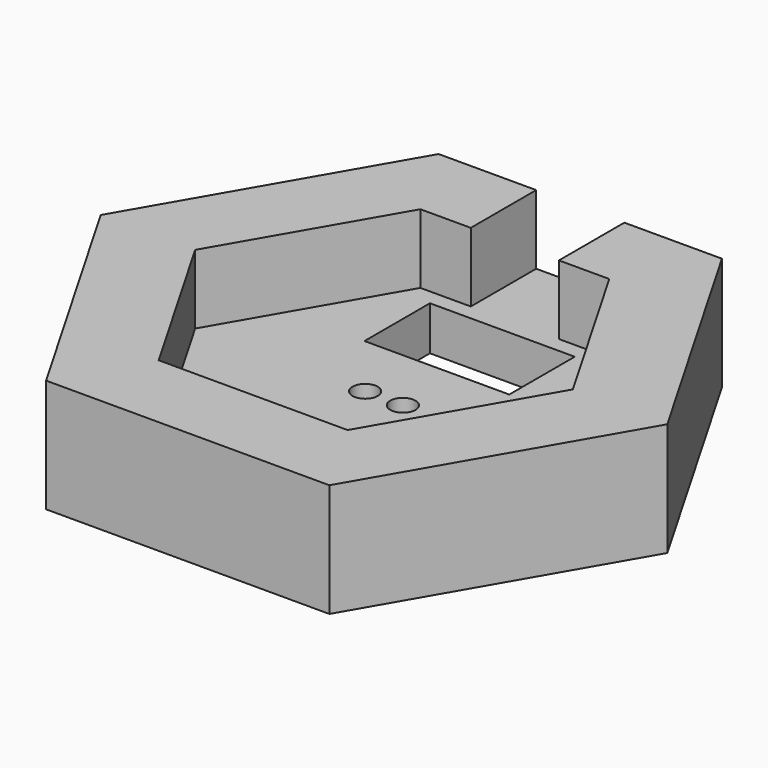
from build123d import *

# Parameters (mm, degrees)
F0_R     = 1
F1_DEPTH = 3.5
F3_DEPTH = 5.5
F4_W     = 11.5
F4_H     = 6.5
F5_DEPTH = 3.5


with BuildPart() as f1:
    # F0 (on Top) → F1 (new body)
    with BuildSketch(Plane.XY):
        Polygon((11.25, -19.485572), (22.5, 0), (11.25, 19.485572), (-11.25, 19.485572), (-22.5, 0), (-11.25, -19.485572), align=None)
        with Locations((-1.5, 0)):
            Circle(F0_R, mode=Mode.SUBTRACT)
        with Locations((1.5, 0)):
            Circle(F0_R, mode=Mode.SUBTRACT)
        Polygon((11.25, -19.485572), (22.5, 0), (11.25, 19.485572), (-11.25, 19.485572), (-22.5, 0), (-11.25, -19.485572), align=None)
        with Locations((-1.5, 0)):
            Circle(F0_R, mode=Mode.SUBTRACT)
        with Locations((1.5, 0)):
            Circle(F0_R, mode=Mode.SUBTRACT)
    extrude(amount=F1_DEPTH)

    # F2 (on face) → F3 (join)
    with BuildSketch(Plane.XY.offset(3.5)):
        Polygon((7.5, 12.990381), (15, 0), (7.5, -12.990381), (-7.5, -12.990381), (-15, 0), (-7.5, 12.990381), (-3.5, 12.990381), (-3.5, 19.485572), (-11.25, 19.485572), (-22.5, 0), (-11.25, -19.485572), (11.25, -19.485572), (22.5, 0), (11.25, 19.485572), (3.5, 19.485572), (3.5, 12.990381), align=None)
    extrude(amount=F3_DEPTH)

    # F4 (on face) → F5 (cut, through all)
    with BuildSketch(Plane.XY.offset(3.5)):
        with Locations((0, 8.5)):
            Rectangle(F4_W, F4_H)
    extrude(amount=-F5_DEPTH, mode=Mode.SUBTRACT)


solid = f1.part
